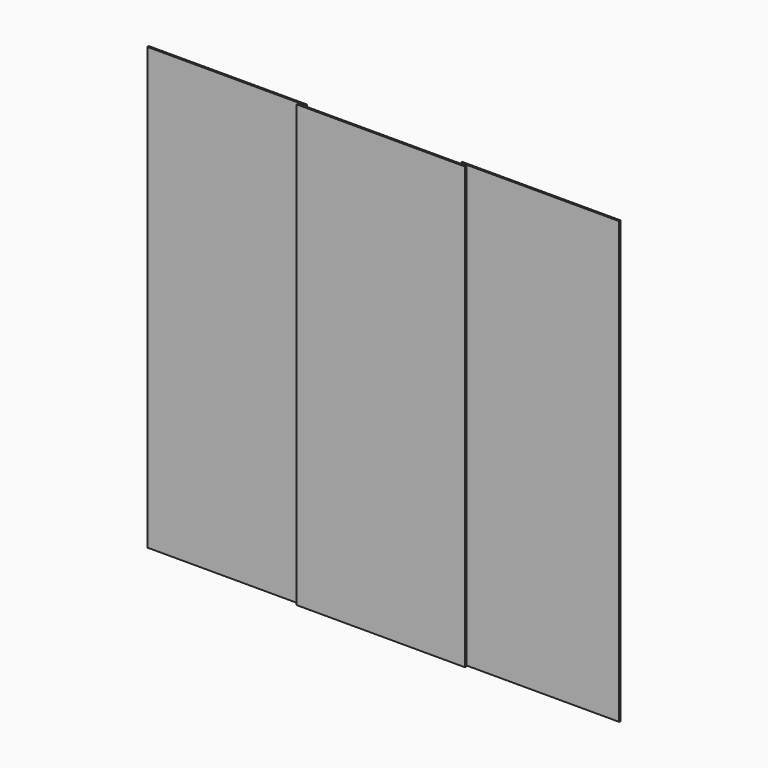
from build123d import *

# Parameters (mm, degrees)
F1_START = -3
F0_W     = 670
F0_H     = 1900
F0_W_2   = 30
F0_H_2   = 45
F1_DEPTH = 8
F2_START = 3
F0_W_3   = 700
F2_DEPTH = 8


with BuildPart() as f1:
    # F0 (on Front) → F1 (new body)
    with BuildSketch(Plane.XZ.offset(F1_START)):
        with Locations((355, 1000)):
            Rectangle(F0_W, F0_H)
        Polygon((690, 1995), (5, 1995), (5, 5), (690, 5), (690, 50), (20, 50), (20, 1950), (690, 1950), align=None)
        with Locations((705, 1972.5)):
            Rectangle(F0_W_2, F0_H_2)
        with Locations((705, 1000)):
            Rectangle(F0_W_2, F0_H)
        with Locations((705, 27.5)):
            Rectangle(F0_W_2, F0_H_2)
    extrude(amount=-F1_DEPTH)


with BuildPart() as f1b:
    # F0 (on Front) → F1, piece 2 (new body)
    with BuildSketch(Plane.XZ.offset(F1_START)):
        with Locations((1785, 1000)):
            Rectangle(F0_W, F0_H)
        Polygon((2135, 1995), (1450, 1995), (1450, 1950), (2120, 1950), (2120, 50), (1450, 50), (1450, 5), (2135, 5), align=None)
        with Locations((1435, 1972.5)):
            Rectangle(F0_W_2, F0_H_2)
        with Locations((1435, 1000)):
            Rectangle(F0_W_2, F0_H)
        with Locations((1435, 27.5)):
            Rectangle(F0_W_2, F0_H_2)
    extrude(amount=-F1_DEPTH)


with BuildPart() as f2:
    # F0 (on Front) → F2 (new body)
    with BuildSketch(Plane.XZ.offset(F2_START)):
        with Locations((1070, 1972.5)):
            Rectangle(F0_W_3, F0_H_2)
        with Locations((1070, 1000)):
            Rectangle(F0_W_3, F0_H)
        with Locations((1435, 1972.5)):
            Rectangle(F0_W_2, F0_H_2)
        with Locations((1435, 1000)):
            Rectangle(F0_W_2, F0_H)
        with Locations((705, 1972.5)):
            Rectangle(F0_W_2, F0_H_2)
        with Locations((705, 1000)):
            Rectangle(F0_W_2, F0_H)
        with Locations((705, 27.5)):
            Rectangle(F0_W_2, F0_H_2)
        with Locations((1070, 27.5)):
            Rectangle(F0_W_3, F0_H_2)
        with Locations((1435, 27.5)):
            Rectangle(F0_W_2, F0_H_2)
    extrude(amount=F2_DEPTH)


solid = Compound([f1.part, f1b.part, f2.part])
